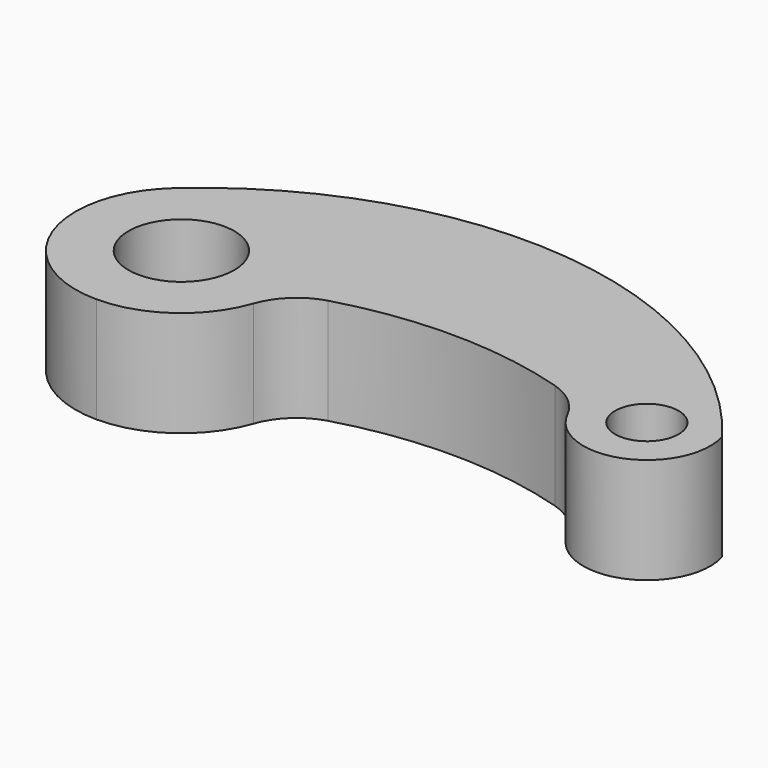
from build123d import *

# Parameters (mm, degrees)
F0_R     = 7.5
F1_DEPTH = 25


with BuildPart() as f1:
    # F0 (on Top) → F1 (new body)
    with BuildSketch(Plane.XY):
        with BuildLine():
            ThreePointArc((-57.728492, 30.825428), (-48.889657, 34.486593), (-45.228492, 43.325428))
            ThreePointArc((-45.228492, 43.325428), (-66.567327, 52.164263), (-57.728492, 30.825428))
        make_face()
        with BuildLine():
            ThreePointArc((-74.379287, 61.973512), (-81.086597, 34.414819), (-57.728492, 18.325428))
            ThreePointArc((-57.728492, 18.325428), (-43.244811, 22.948407), (-34.11775, 35.107589))
            ThreePointArc((-34.11775, 35.107589), (-30.270674, 41.063145), (-24.118083, 44.586534))
            ThreePointArc((-24.118083, 44.586534), (2.860467, 48.323602), (29.790608, 44.252317))
            ThreePointArc((29.790608, 44.252317), (35.111789, 41.365514), (38.858497, 36.610434))
            ThreePointArc((38.858497, 36.610434), (57.731272, 29.354351), (66.683477, 47.484171))
            ThreePointArc((66.683477, 47.484171), (-0.568945, 85.728888), (-74.238168, 62.098563))
            ThreePointArc((-74.238168, 62.098563), (-74.308758, 62.036072), (-74.379287, 61.973512))
        make_face()
        with BuildLine():
            ThreePointArc((-57.728492, 30.825428), (-66.567327, 52.164263), (-45.228492, 43.325428))
            ThreePointArc((-45.228492, 43.325428), (-48.889657, 34.486593), (-57.728492, 30.825428))
        make_face(mode=Mode.SUBTRACT)
        with Locations((52.271508, 43.325428)):
            Circle(F0_R, mode=Mode.SUBTRACT)
        with BuildLine():
            ThreePointArc((-74.238168, 62.098563), (-74.308846, 62.03617), (-74.379287, 61.973512))
            ThreePointArc((-74.379287, 61.973512), (-74.308758, 62.036072), (-74.238168, 62.098563))
        make_face()
    extrude(amount=F1_DEPTH)


solid = f1.part
